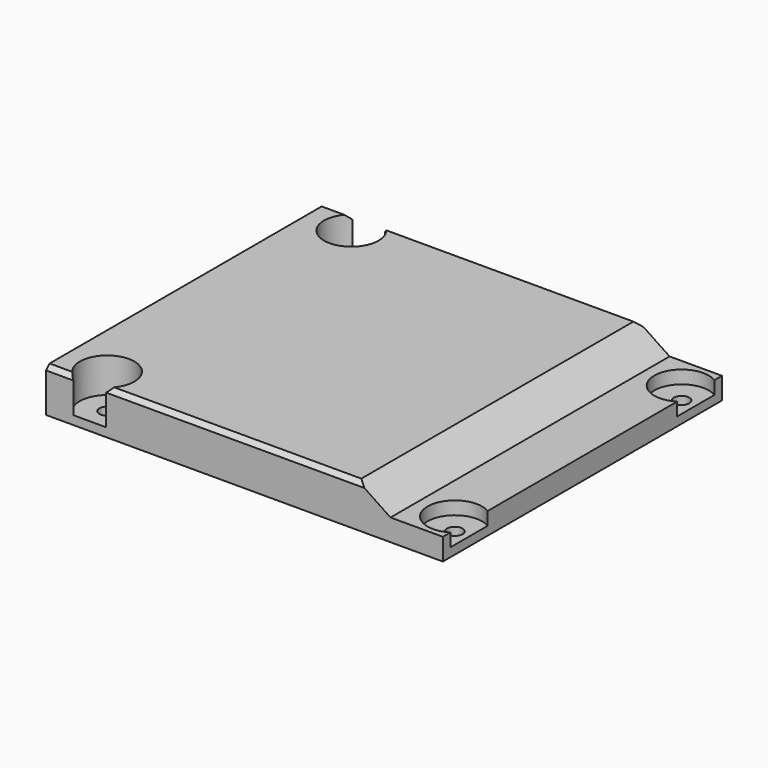
from build123d import *

# Parameters (mm, degrees)
SKETCH012_W         = 182
SKETCH012_H         = 160
PAD006_DEPTH        = 20
HOLE005_D           = 7.1
HOLE005_DEPTH       = 25
HOLE005_CBORE_D     = 25
HOLE005_CBORE_DEPTH = 16
SKETCH020_W         = 146
SKETCH020_H         = 125
POCKET004_DEPTH     = 5
POCKET004_TAPER     = 60
CHAMFER001_SIZE     = 2
SKETCH025_W         = 115
SKETCH025_H         = 107
POCKET007_DEPTH     = 12
POCKET014_DEPTH     = 500


with BuildPart() as part:
    # Sketch012 → Pad006 (new body)
    with BuildSketch(Plane.XY):
        with Locations((91, 82)):
            Rectangle(SKETCH012_W, SKETCH012_H)
    extrude(amount=PAD006_DEPTH)

    # Hole005
    with Locations(Plane.XY.offset(20)):
        with Locations((20, 152), (20, 12), (175.5, 147), (175.5, 17)):
            CounterBoreHole(HOLE005_D / 2, HOLE005_CBORE_D / 2, HOLE005_CBORE_DEPTH, depth=HOLE005_DEPTH)

    # Sketch020 → Pocket004 (cut)
    with BuildSketch(Plane.XY):
        with Locations((98, 82.5)):
            Rectangle(SKETCH020_W, SKETCH020_H)
    extrude(amount=POCKET004_DEPTH, taper=POCKET004_TAPER, mode=Mode.SUBTRACT)

    # Chamfer001
    chamfer001_edges = [part.edges().sort_by_distance(p)[0] for p in [
        (104.75, 2, 20),
        (6.25, 2, 20),
        (6.25, 162, 20),
        (104.75, 162, 20),
    ]]
    chamfer(chamfer001_edges, length=CHAMFER001_SIZE)

    # Sketch025 → Pocket007 (cut)
    with BuildSketch(Plane.XY):
        with Locations((91.5, 82.5)):
            Rectangle(SKETCH025_W, SKETCH025_H)
    extrude(amount=POCKET007_DEPTH, mode=Mode.SUBTRACT)

    # Sketch032 → Pocket014 (cut)
    with BuildSketch(Plane.XZ):
        Polygon((140, 30), (190, 30), (190, 10), (170, 10), (160, 10), (158, 10), (140, 22), align=None)
    extrude(amount=-POCKET014_DEPTH, mode=Mode.SUBTRACT)


with BuildPart() as part_1:
    # Body004 placement: moved
    add(part.part.moved(Location((-80, -12, 116))))


solid = part_1.part
